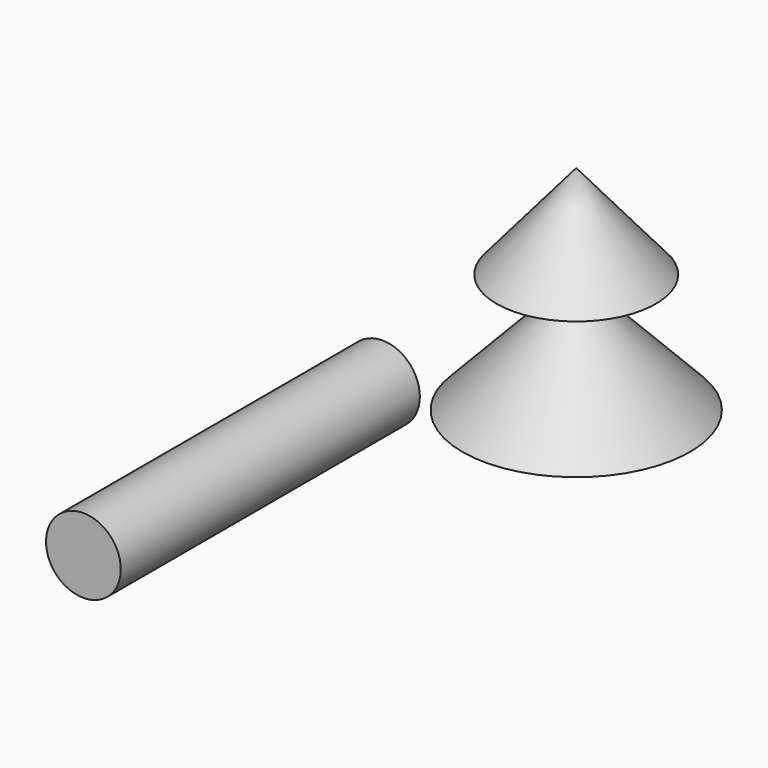
from build123d import *

# Parameters (mm, degrees)
F0_R     = 5
F1_DEPTH = 50


with BuildPart() as f1:
    # F0 (on Front) → F1 (new body)
    with BuildSketch(Plane.XZ):
        with Locations((-25.9163230658, 24.8713046312)):
            Circle(F0_R)
    extrude(amount=F1_DEPTH)


with BuildPart() as f3:
    # F2 (on Front) → F3 (revolve)
    with BuildSketch(Plane.XZ):
        Polygon((0, 46.0655391216), (0, 58.604799211), (-10.6569286436, 46.0655391216), align=None)
    revolve(axis=Axis((0, 0, 3.6980304867), (0, 0, -1)))


with BuildPart() as f3b:
    # F2 (on Front) → F3, piece 2 (revolve)
    with BuildSketch(Plane.XZ):
        Polygon((0, 29.7526032817), (0, 46.0655391216), (-15.2166634798, 30.1064774394), align=None)
    revolve(axis=Axis((0, 0, 3.6980304867), (0, 0, -1)))


with BuildPart() as f3c:
    # F2 (on Front) → F3, piece 3 (revolve)
    with BuildSketch(Plane.XZ):
        Polygon((1.1223797919, 29.7265015543), (0, 29.7526032817), (0, 29.0462713956), align=None)
    revolve(axis=Axis((0, 0, 3.6980304867), (0, 0, -1)))


solid = Compound([f1.part, f3.part, f3b.part, f3c.part])
